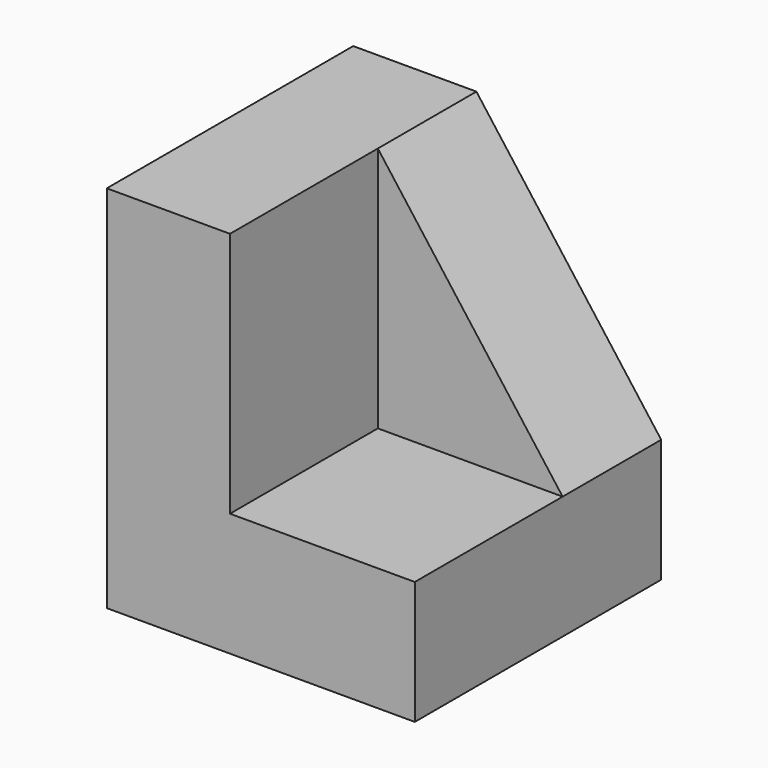
from build123d import *

# Parameters (mm, degrees)
F1_DEPTH = 1270
F3_DEPTH = 508


with BuildPart() as f1:
    # F0 (on Front) → F1 (new body)
    with BuildSketch(Plane.XZ):
        Polygon((0, 1524), (0, 0), (1270, 0), (1270, 508), (508, 508), (508, 1524), align=None)
    extrude(amount=F1_DEPTH)

    # F2 (on face) → F3 (join)
    with BuildSketch(Plane(origin=(0, 0, 0), x_dir=(-1, 0, 0), z_dir=(0, 1, 0))):
        Polygon((-508, 508), (-508, 1524), (-1270, 508), (-1237.555623, 508), align=None)
    extrude(amount=-F3_DEPTH)


solid = f1.part
